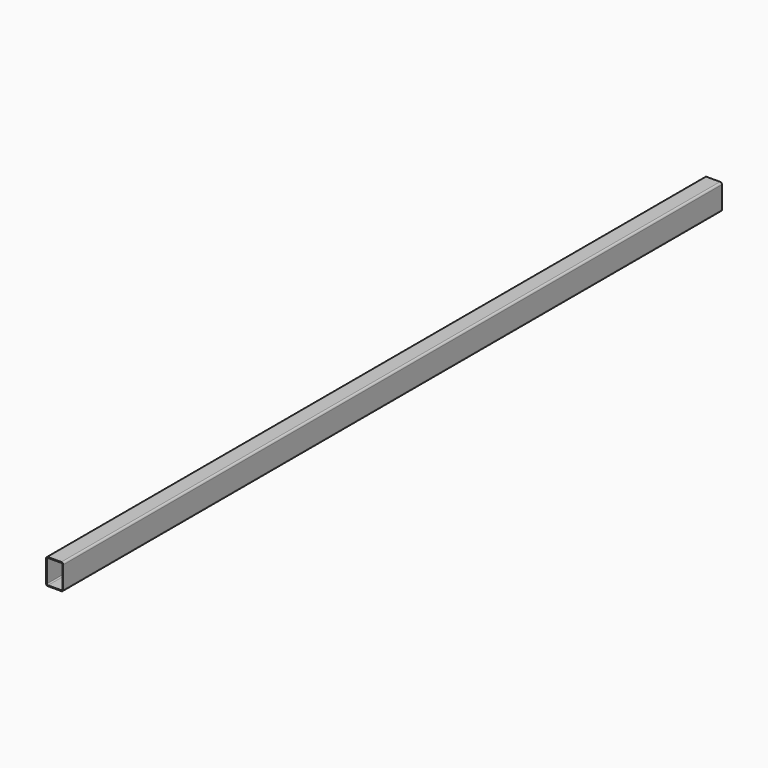
from build123d import *

# Parameters (mm, degrees)
F0_W     = 50
F0_H     = 75
F1_DEPTH = 1200
F2_R     = 5.5
F3_T     = -2.5


with BuildPart() as f1:
    # F0 (on Front) → F1 (new body, symmetric)
    with BuildSketch(Plane.XZ):
        Rectangle(F0_W, F0_H)
    extrude(amount=F1_DEPTH, both=True)

    # F2
    f2_edges = [f1.edges().sort_by_distance(p)[0] for p in [
        (25, 0, 37.5),
        (-25, 0, 37.5),
        (-25, 0, -37.5),
        (25, 0, -37.5),
    ]]
    fillet(f2_edges, radius=F2_R)

    # F3
    f3_openings = [f1.faces().sort_by_distance(p)[0] for p in [
        (0, -1200, 0),
        (0, 1200, 0),
    ]]
    offset(amount=F3_T, openings=f3_openings)


solid = f1.part
